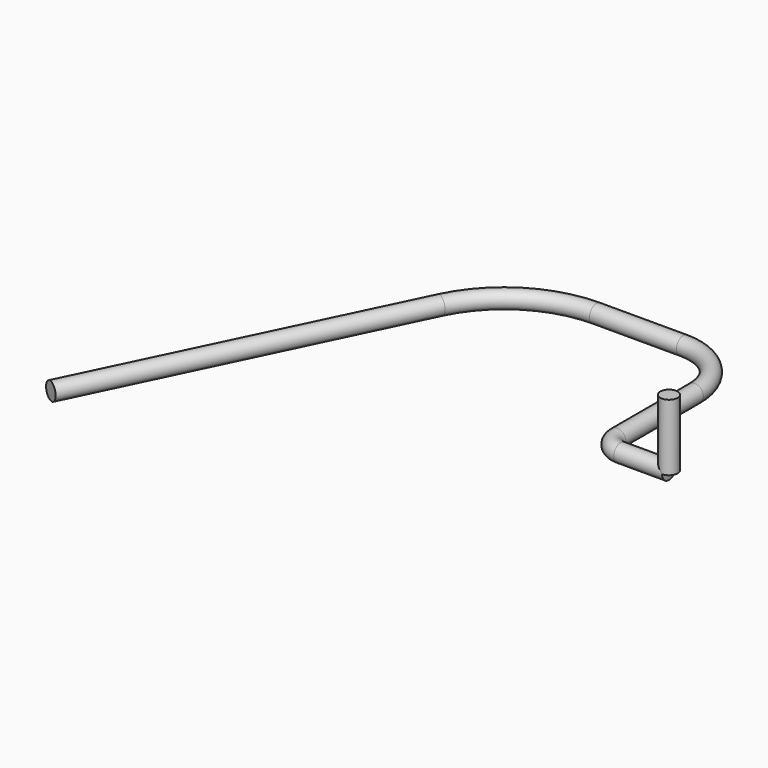
from build123d import *

# Parameters (mm, degrees)
F0_R = 0.15
F6_R = 0.15


with BuildPart() as f2:
    # F2: sweep along a path in F1
    with BuildLine(Plane.XY) as f2_path:
        Line((0, 0), (0, 1.0845226934))
        ThreePointArc((0, 1.0845226934), (-0.2928932188, 1.7916294746), (-1, 2.0845226934))
        Line((-1, 2.0845226934), (-2.505036419, 2.0845226934))
        ThreePointArc((-2.505036419, 2.0845226934), (-3.5683457273, 1.7784451577), (-4.3061999428, 0.9538960083))
        Line((-4.3061999428, 0.9538960083), (-6.8471138366, -4.3103573844))
    # F0 (on Front) → F2 (sweep)
    with BuildSketch(Plane.XZ):
        Circle(F0_R)
    sweep(path=f2_path.line)

    # F4: sweep along a path in F3
    with BuildLine(Plane.XY) as f4_path:
        Line((0, 0), (0, -0.5958363181))
        ThreePointArc((0, -0.5958363181), (0.0878679656, -0.8079683525), (0.3, -0.8958363181))
        Line((0.3, -0.8958363181), (1.136880412, -0.8958363181))
    # F0 (on Front) → F4 (sweep)
    with BuildSketch(Plane.XZ):
        Circle(F0_R)
    sweep(path=f4_path.line)

    # F7: sweep along a path in F5
    with BuildLine(Plane.YZ.offset(1.136880412)) as f7_path:
        Line((-0.8958363181, 0), (-0.8958363181, 1.1528083123))
    # F6 (on Top) → F7 (sweep)
    with BuildSketch(Plane.XY):
        with Locations((1.136880412, -0.8958363181)):
            Circle(F6_R)
    sweep(path=f7_path.line)


solid = f2.part
